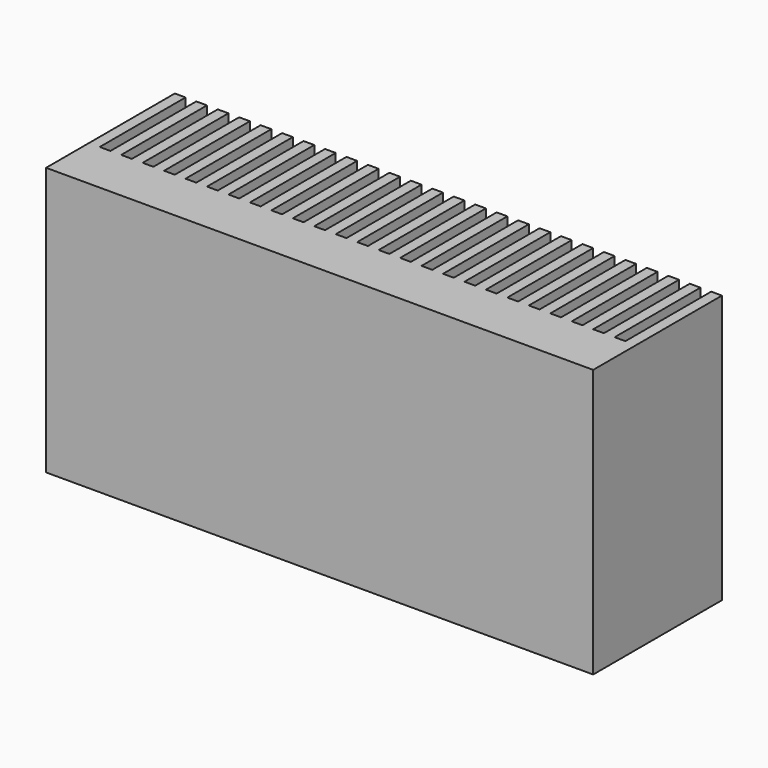
from build123d import *

# Parameters (mm, degrees)
F1_DEPTH = 50


with BuildPart() as f1:
    # F0 (on Top) → F1 (new body)
    with BuildSketch(Plane.XY):
        Polygon((-567.647423, -242.966514), (-567.647423, -272.966514), (-465.647423, -272.966514), (-465.647423, -242.966514), (-467.647423, -242.966514), (-467.647423, -262.966514), (-469.647423, -262.966514), (-469.647423, -242.966514), (-471.647423, -242.966514), (-471.647423, -262.966514), (-473.647423, -262.966514), (-473.647423, -242.966514), (-475.647423, -242.966514), (-475.647423, -262.966514), (-477.647423, -262.966514), (-477.647423, -242.966514), (-479.647423, -242.966514), (-479.647423, -262.966514), (-481.647423, -262.966514), (-481.647423, -242.966514), (-483.647423, -242.966514), (-483.647423, -262.966514), (-485.647423, -262.966514), (-485.647423, -242.966514), (-487.647423, -242.966514), (-487.647423, -262.966514), (-489.647423, -262.966514), (-489.647423, -242.966514), (-491.647423, -242.966514), (-491.647423, -262.966514), (-493.647423, -262.966514), (-493.647423, -242.966514), (-495.647423, -242.966514), (-495.647423, -262.966514), (-497.647423, -262.966514), (-497.647423, -242.966514), (-499.647423, -242.966514), (-499.647423, -262.966514), (-501.647423, -262.966514), (-501.647423, -242.966514), (-503.647423, -242.966514), (-503.647423, -262.966514), (-505.647423, -262.966514), (-505.647423, -242.966514), (-507.647423, -242.966514), (-507.647423, -262.966514), (-509.647423, -262.966514), (-509.647423, -242.966514), (-511.647423, -242.966514), (-511.647423, -262.966514), (-513.647423, -262.966514), (-513.647423, -242.966514), (-515.647423, -242.966514), (-515.647423, -262.966514), (-517.647423, -262.966514), (-517.647423, -242.966514), (-519.647423, -242.966514), (-519.647423, -262.966514), (-521.647423, -262.966514), (-521.647423, -242.966514), (-523.647423, -242.966514), (-523.647423, -262.966514), (-525.647423, -262.966514), (-525.647423, -242.966514), (-527.647423, -242.966514), (-527.647423, -262.966514), (-529.647423, -262.966514), (-529.647423, -242.966514), (-531.647423, -242.966514), (-531.647423, -262.966514), (-533.647423, -262.966514), (-533.647423, -242.966514), (-535.647423, -242.966514), (-535.647423, -262.966514), (-537.647423, -262.966514), (-537.647423, -242.966514), (-539.647423, -242.966514), (-539.647423, -262.966514), (-541.647423, -262.966514), (-541.647423, -242.966514), (-543.647423, -242.966514), (-543.647423, -262.966514), (-545.647423, -262.966514), (-545.647423, -242.966514), (-547.647423, -242.966514), (-547.647423, -262.966514), (-549.647423, -262.966514), (-549.647423, -242.966514), (-551.647423, -242.966514), (-551.647423, -262.966514), (-553.647423, -262.966514), (-553.647423, -242.966514), (-555.647423, -242.966514), (-555.647423, -262.966514), (-557.647423, -262.966514), (-557.647423, -242.966514), (-559.647423, -242.966514), (-559.647423, -262.966514), (-561.647423, -262.966514), (-561.647423, -242.966514), (-563.647423, -242.966514), (-563.647423, -262.966514), (-565.647423, -262.966514), (-565.647423, -242.966514), align=None)
    extrude(amount=F1_DEPTH)


solid = f1.part
